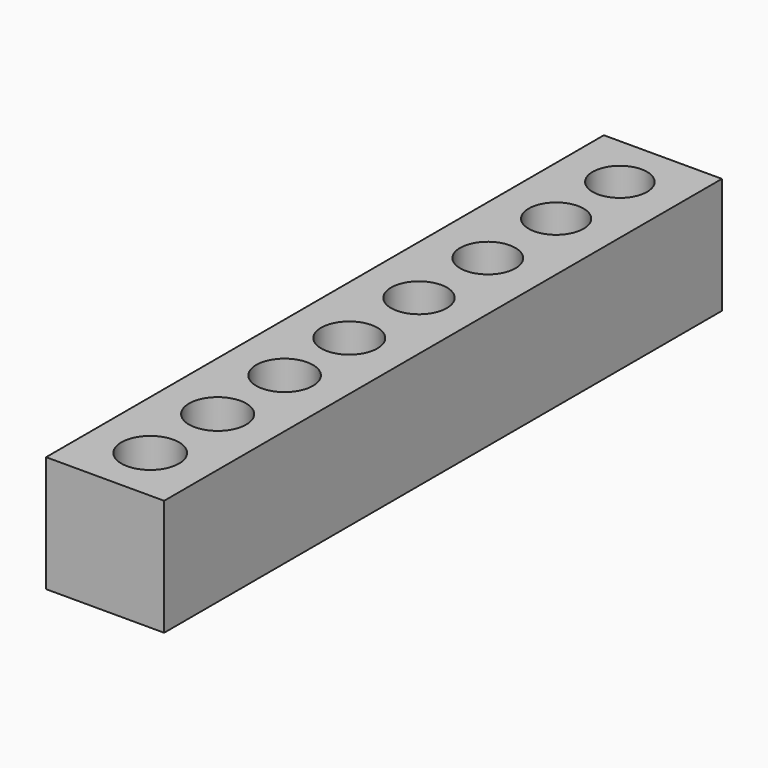
from build123d import *

# Parameters (mm, degrees)
F0_W     = 25.4
F0_H     = 150
F0_R     = 6.2
F0_R_2   = 6.15
F0_R_3   = 6.1
F0_R_4   = 6.05
F0_R_5   = 6
F0_R_6   = 5.95
F0_R_7   = 5.9
F0_R_8   = 5.85
F1_DEPTH = 25


with BuildPart() as f1:
    # F0 (on Top) → F1 (new body)
    with BuildSketch(Plane.XY):
        Rectangle(F0_W, F0_H)
        with Locations((0, -62.866203)):
            Circle(F0_R, mode=Mode.SUBTRACT)
        with Locations((0, -44.734951)):
            Circle(F0_R_2, mode=Mode.SUBTRACT)
        with Locations((0, -26.727883)):
            Circle(F0_R_3, mode=Mode.SUBTRACT)
        with Locations((0, -9.341748)):
            Circle(F0_R_4, mode=Mode.SUBTRACT)
        with Locations((0, 9.410438)):
            Circle(F0_R_5, mode=Mode.SUBTRACT)
        with Locations((0, 27.914252)):
            Circle(F0_R_6, mode=Mode.SUBTRACT)
        with Locations((0, 46.293881)):
            Circle(F0_R_7, mode=Mode.SUBTRACT)
        with Locations((0, 63.431643)):
            Circle(F0_R_8, mode=Mode.SUBTRACT)
    extrude(amount=F1_DEPTH)


solid = f1.part
